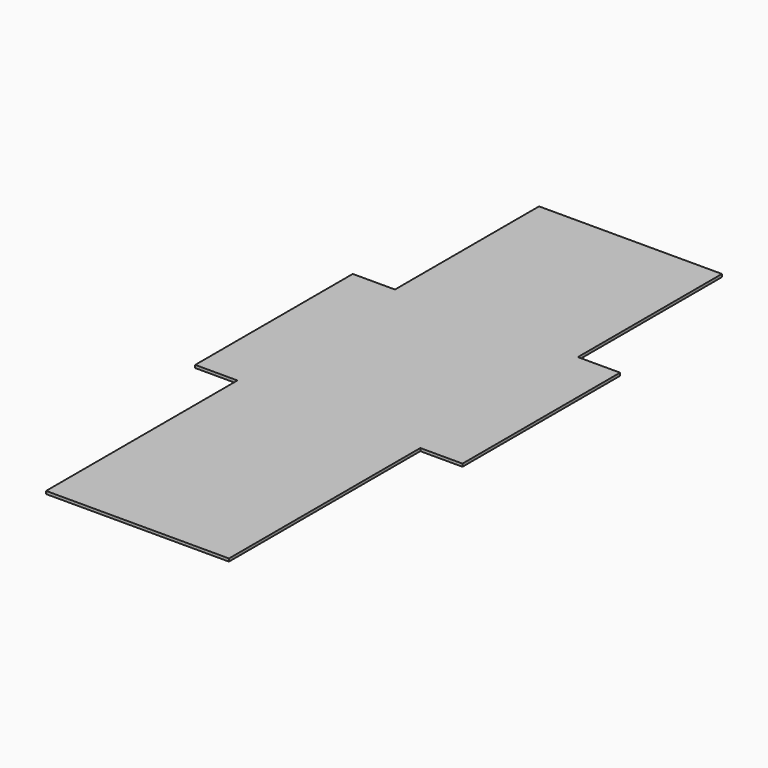
from build123d import *

# Parameters (mm, degrees)
F0_W     = 65
F0_H     = 45
F0_H_2   = 70
F0_W_2   = 15
F0_H_3   = 25
F0_H_4   = 19
F0_H_5   = 15
F1_DEPTH = 1


with BuildPart() as f1:
    # F0 (on Top) → F1 (new body)
    with BuildSketch(Plane.XY):
        with Locations((0, -57.5)):
            Rectangle(F0_W, F0_H)
        Rectangle(F0_W, F0_H_2)
        with Locations((40, 0)):
            Rectangle(F0_W_2, F0_H_2)
        with Locations((-40, 0)):
            Rectangle(F0_W_2, F0_H_2)
        with Locations((0, 57.5)):
            Rectangle(F0_W, F0_H)
        with Locations((0, -92.5)):
            Rectangle(F0_W, F0_H_3)
        with Locations((0, 89.5)):
            Rectangle(F0_W, F0_H_4)
        with Locations((0, -112.5)):
            Rectangle(F0_W, F0_H_5)
    extrude(amount=F1_DEPTH)


solid = f1.part
